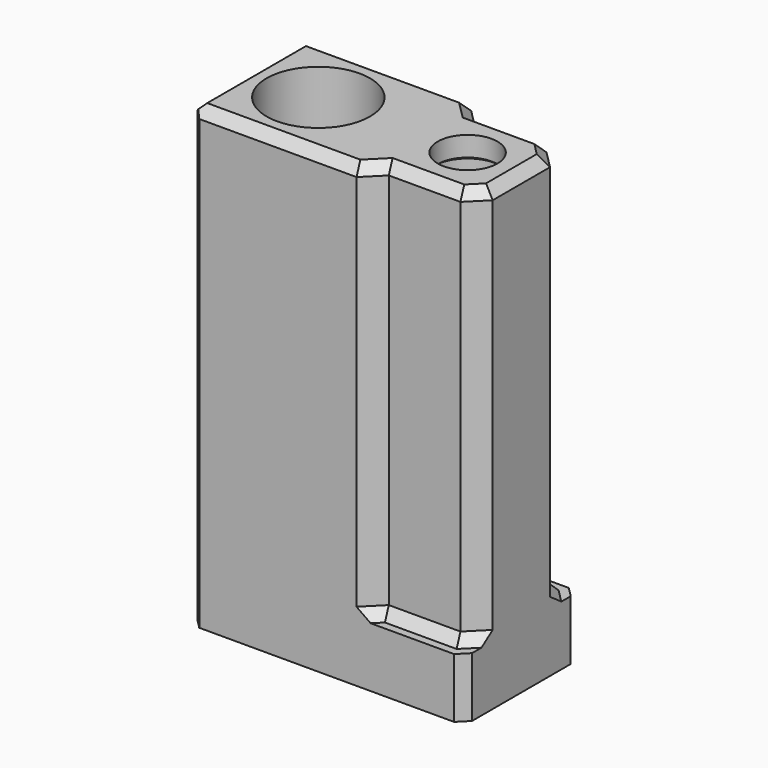
from build123d import *

# Parameters (mm, degrees)
SKETCH_W        = 13.8
SKETCH_H        = 7.2
SKETCH_R        = 2.6
SKETCH_R_2      = 1.7
PAD_DEPTH       = 3
SKETCH001_R     = 2.6
SKETCH001_R_2   = 1.7
PAD001_DEPTH    = 20
CHAMFER_SIZE    = 0.5
CHAMFER001_SIZE = 0.5
CHAMFER002_SIZE = 0.5
SKETCH002_R     = 2
SKETCH002_R_2   = 1.5
PAD002_DEPTH    = 1
CHAMFER003_SIZE = 0.15
CHAMFER004_SIZE = 0.5


with BuildPart() as part:
    # Sketch → Pad (new body)
    with BuildSketch(Plane.XY):
        with Locations((3.3, 0)):
            Rectangle(SKETCH_W, SKETCH_H)
        Circle(SKETCH_R, mode=Mode.SUBTRACT)
        with Locations((7.5, 0)):
            Circle(SKETCH_R_2, mode=Mode.SUBTRACT)
    extrude(amount=PAD_DEPTH)

    # Sketch001 → Pad001 (new body)
    with BuildSketch(Plane.XY.offset(3)):
        Polygon((5.7, -2.7), (9.3, -2.7), (10.2, -1.8), (10.2, 1.8), (9.3, 2.7), (5.7, 2.7), (4.8, 3.6), (-3.6, 3.6), (-3.6, -3.6), (4.8, -3.6), align=None)
        Circle(SKETCH001_R, mode=Mode.SUBTRACT)
        with Locations((7.5, 0)):
            Circle(SKETCH001_R_2, mode=Mode.SUBTRACT)
    extrude(amount=PAD001_DEPTH)

    # Chamfer
    chamfer_edges = [part.edges().sort_by_distance(p)[0] for p in [
        (5.25, -3.15, 3),
        (7.5, -2.7, 3),
        (9.75, -2.25, 3),
        (9.75, 2.25, 3),
        (7.5, 2.7, 3),
        (5.25, 3.15, 3),
    ]]
    chamfer(chamfer_edges, length=CHAMFER_SIZE)

    # Chamfer001
    chamfer001_edges = [part.edges().sort_by_distance(p)[0] for p in [
        (0.6, -3.6, 23),
        (-3.6, 0, 23),
        (0.6, 3.6, 23),
        (5.25, 3.15, 23),
        (7.5, 2.7, 23),
        (9.75, 2.25, 23),
        (10.2, 0, 23),
        (9.75, -2.25, 23),
        (7.5, -2.7, 23),
        (5.25, -3.15, 23),
    ]]
    chamfer(chamfer001_edges, length=CHAMFER001_SIZE)

    # Chamfer002
    chamfer002_edges = [part.edges().sort_by_distance(p)[0] for p in [
        (10.2, -3.6, 1.5),
        (10.2, 3.6, 1.5),
    ]]
    chamfer(chamfer002_edges, length=CHAMFER002_SIZE)

    # Sketch002 → Pad002 (new body)
    with BuildSketch(Plane.XY.offset(23)):
        with Locations((7.5, 0)):
            Circle(SKETCH002_R)
        with Locations((7.5, 0)):
            Circle(SKETCH002_R_2, mode=Mode.SUBTRACT)
    extrude(amount=-PAD002_DEPTH)

    # Chamfer003
    chamfer003_edges = [part.edges().sort_by_distance(p)[0] for p in [
        (5.8, 0, 22),
    ]]
    chamfer(chamfer003_edges, length=CHAMFER003_SIZE)

    # Chamfer004
    chamfer004_edges = [part.edges().sort_by_distance(p)[0] for p in [
        (-3.6, 3.6, 12.75),
        (-3.6, 3.6, 1.5),
        (-3.6, -3.6, 1.5),
        (-3.6, -3.6, 12.75),
    ]]
    chamfer(chamfer004_edges, length=CHAMFER004_SIZE)


solid = part.part
